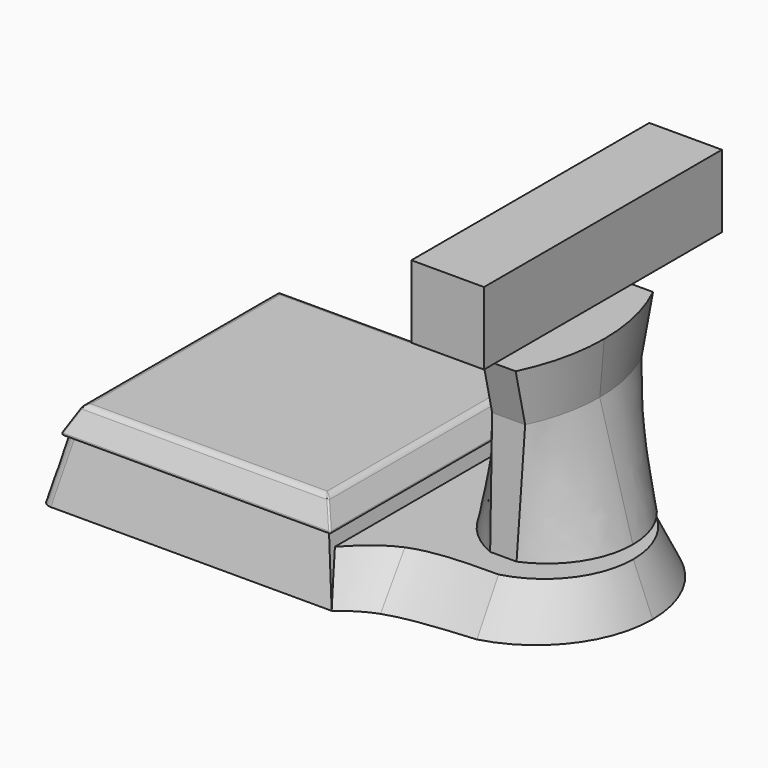
from build123d import *

# Parameters (mm, degrees)
F2_W      = 40
F2_H      = 40
F0_W      = 44
F0_H      = 44
F4_R      = 1.5
F5_R      = 1.5
F6_W      = 41
F6_H      = 41
F8_W      = 37
F8_H      = 37
F10_R     = 1
F11_R     = 0.25
F13_W     = 11
F13_H     = 45.0330291986
F14_DEPTH = 11


with BuildPart() as f3:
    # F2 (on offset) → F3 section 0
    with BuildSketch(Plane.XY.offset(9)):
        with Locations((22, 22)):
            Rectangle(F2_W, F2_H)
    # F0 (on Top) → F3 section 1
    with BuildSketch(Plane.XY):
        with Locations((22, 22)):
            Rectangle(F0_W, F0_H)
    loft()

    # F4
    f4_edges = [f3.edges().sort_by_distance(p)[0] for p in [
        (1, 1, 4.5),
    ]]
    fillet(f4_edges, radius=F4_R)

    # F5
    f5_edges = [f3.edges().sort_by_distance(p)[0] for p in [
        (1, 43, 4.5),
    ]]
    fillet(f5_edges, radius=F5_R)

    # F20 (on offset) → F29 section 0
    with BuildSketch(Plane.XY.offset(7)):
        with BuildLine():
            add(Edge.make_bspline(
                [(49.000000095, 36.5999999251), (46.1058603772, 37.7910813372), (44.0529302361, 39.9455406312), (42.000000095, 42.0999999251)],
                knots=[0.5480089564, 0.5480089564, 0.5480089564, 0.5480089564, 1, 1, 1, 1], degree=3))
            Line((42.000000095, 42.0999999251), (42.000000095, 2.0999999251))
            add(Edge.make_bspline(
                [(49.000000095, 7.5999999251), (46.1058603772, 6.408918513), (44.0529302361, 4.2544592191), (42.000000095, 2.0999999251)],
                knots=[0.5480089564, 0.5480089564, 0.5480089564, 0.5480089564, 1, 1, 1, 1], degree=3))
            Line((49.000000095, 7.5999999251), (49.000000095, 36.5999999251))
        make_face()
    # F0 (on Top) → F29 section 1
    with BuildSketch(Plane.XY):
        with BuildLine():
            Line((44, 44), (44, 0))
            add(Edge.make_bspline(
                [(44, 0), (45.4231395267, 1.111139135), (46.8462790534, 2.22227827), (49, 3)],
                knots=[0, 0, 0, 0, 0.3996958004, 0.3996958004, 0.3996958004, 0.3996958004], degree=3))
            Line((49, 3), (49, 41))
            add(Edge.make_bspline(
                [(44, 44), (45.4231395267, 42.888860865), (46.8462790534, 41.77772173), (49, 41)],
                knots=[0, 0, 0, 0, 0.3996958004, 0.3996958004, 0.3996958004, 0.3996958004], degree=3))
        make_face()
    loft()

    # F0 (on Top) → F30 section 0
    with BuildSketch(Plane.XY):
        with BuildLine():
            Line((49, 41), (49, 3))
            add(Edge.make_bspline(
                [(49, 3), (52.2346792934, 4.168062362), (57.1173396467, 4.584031181), (62, 5)],
                knots=[0.3996958004, 0.3996958004, 0.3996958004, 0.3996958004, 1, 1, 1, 1], degree=3))
            Line((62, 5), (62, 22))
            Line((62, 22), (62, 39))
            add(Edge.make_bspline(
                [(49, 41), (52.2346792934, 39.831937638), (57.1173396467, 39.415968819), (62, 39)],
                knots=[0.3996958004, 0.3996958004, 0.3996958004, 0.3996958004, 1, 1, 1, 1], degree=3))
        make_face()
    # F20 (on offset) → F30 section 1
    with BuildSketch(Plane.XY.offset(7)):
        with BuildLine():
            add(Edge.make_bspline(
                [(62.000000095, 35.0999999251), (57.2544756637, 35.1279465892), (52.5089512324, 35.1558932533), (49.000000095, 36.5999999251)],
                knots=[0, 0, 0, 0, 0.5480089564, 0.5480089564, 0.5480089564, 0.5480089564], degree=3))
            Line((49.000000095, 36.5999999251), (49.000000095, 7.5999999251))
            add(Edge.make_bspline(
                [(62.000000095, 9.0999999251), (57.2544756637, 9.072053261), (52.5089512324, 9.044106597), (49.000000095, 7.5999999251)],
                knots=[0, 0, 0, 0, 0.5480089564, 0.5480089564, 0.5480089564, 0.5480089564], degree=3))
            Line((62.000000095, 9.0999999251), (62.000000095, 22.0999999251))
            Line((62.000000095, 22.0999999251), (62.000000095, 35.0999999251))
        make_face()
    loft()

    # F0 (on Top) → F31 section 0
    with BuildSketch(Plane.XY):
        with BuildLine():
            Line((62, 39), (62, 22))
            Line((62, 22), (75, 22))
            ThreePointArc((75, 22), (71.3775341348, 32.7004672795), (62, 39))
        make_face()
    # F20 (on offset) → F31 section 1
    with BuildSketch(Plane.XY.offset(7)):
        with BuildLine():
            ThreePointArc((72.000000095, 22.0999999251), (69.2107927485, 30.3006096586), (62.000000095, 35.0999999251))
            Line((62.000000095, 35.0999999251), (62.000000095, 22.0999999251))
            Line((62.000000095, 22.0999999251), (72.000000095, 22.0999999251))
        make_face()
    loft()

    # F20 (on offset) → F32 section 0
    with BuildSketch(Plane.XY.offset(7)):
        with BuildLine():
            Line((62.000000095, 22.0999999251), (62.000000095, 9.0999999251))
            ThreePointArc((62.000000095, 9.0999999251), (69.2107927485, 13.8993901917), (72.000000095, 22.0999999251))
            Line((72.000000095, 22.0999999251), (62.000000095, 22.0999999251))
        make_face()
    # F0 (on Top) → F32 section 1
    with BuildSketch(Plane.XY):
        with BuildLine():
            Line((62, 22), (62, 5))
            ThreePointArc((62, 5), (71.3775341348, 11.2995327205), (75, 22))
            Line((75, 22), (62, 22))
        make_face()
    loft()


with BuildPart() as f9:
    # F6 (on offset) → F9 section 0
    with BuildSketch(Plane.XY.offset(9)):
        with Locations((22.1, 22)):
            Rectangle(F6_W, F6_H)
    # F8 (on offset) → F9 section 1
    with BuildSketch(Plane.XY.offset(13)):
        with Locations((22.1482352977, 22)):
            Rectangle(F8_W, F8_H)
    loft()

    # F10
    f10_edges = [f9.edges().sort_by_distance(p)[0] for p in [
        (22.148235, 3.5, 13),
        (3.648235, 22, 13),
        (40.648235, 22, 13),
        (22.148235, 40.5, 13),
    ]]
    fillet(f10_edges, radius=F10_R)

    # F11
    f11_edges = [f9.edges().sort_by_distance(p)[0] for p in [
        (41.761102, 2.359631, 10.719261),
        (40.920068, 3.221436, 12.442872),
        (22.1, 1.5, 9),
        (22.141543, 3.223607, 12.447214),
        (2.482588, 2.361803, 10.723607),
        (3.367372, 3.225763, 12.451501),
        (1.6, 22, 9),
        (3.369563, 22, 12.45578),
        (2.482588, 41.638197, 10.723607),
        (3.367372, 40.774237, 12.451501),
        (41.761102, 41.640369, 10.719261),
        (40.922203, 22, 12.438523),
        (42.6, 22, 9),
        (22.141543, 40.776393, 12.447214),
        (22.1, 42.5, 9),
        (40.920068, 40.778564, 12.442872),
    ]]
    fillet(f11_edges, radius=F11_R)


with BuildPart() as f14:
    # F13 (on offset) → F14 (new body)
    with BuildSketch(Plane.XY.offset(40)):
        with Locations((61.9711466432, 22.0165145993)):
            Rectangle(F13_W, F13_H)
    extrude(amount=F14_DEPTH)


with BuildPart() as f21:
    # F17 (on offset) → F21 section 0
    with BuildSketch(Plane.XY.offset(27)):
        with BuildLine():
            ThreePointArc((64.5, 11), (66.3671311799, 16.3597429137), (67, 22))
            Line((67, 22), (62, 22))
            Line((62, 22), (62, 11))
            Line((62, 11), (64.5, 11))
        make_face()
    # F18 (on offset) → F21 section 1
    with BuildSketch(Plane.XY.offset(35)):
        with BuildLine():
            Line((67.6662705779, 22), (62.1662705779, 22))
            Line((62.1662705779, 22), (62.1662705779, 9))
            Line((62.1662705779, 9), (64.6662705779, 9))
            ThreePointArc((64.6662705779, 9), (66.9065427168, 15.3291679679), (67.6662705779, 22))
        make_face()
    loft()

    # F18 (on offset) → F22 section 0
    with BuildSketch(Plane.XY.offset(35)):
        with BuildLine():
            Line((62.1662705779, 35), (62.1662705779, 22))
            Line((62.1662705779, 22), (67.6662705779, 22))
            ThreePointArc((67.6662705779, 22), (66.9065427168, 28.6708320321), (64.6662705779, 35))
            Line((64.6662705779, 35), (62.1662705779, 35))
        make_face()
    # F17 (on offset) → F22 section 1
    with BuildSketch(Plane.XY.offset(27)):
        with BuildLine():
            Line((62, 22), (67, 22))
            ThreePointArc((67, 22), (66.3671311799, 27.6402570863), (64.5, 33))
            Line((64.5, 33), (62, 33))
            Line((62, 33), (62, 22))
        make_face()
    loft()

    # F18 (on offset) → F23 section 0
    with BuildSketch(Plane.XY.offset(35)):
        with BuildLine():
            Line((56.6662705779, 22), (62.1662705779, 22))
            Line((62.1662705779, 22), (62.1662705779, 35))
            Line((62.1662705779, 35), (59.6662705779, 35))
            ThreePointArc((59.6662705779, 35), (57.425998439, 28.6708320321), (56.6662705779, 22))
        make_face()
    # F17 (on offset) → F23 section 1
    with BuildSketch(Plane.XY.offset(27)):
        with BuildLine():
            Line((57, 22), (62, 22))
            Line((62, 22), (62, 33))
            Line((62, 33), (59.5, 33))
            ThreePointArc((59.5, 33), (57.6328688201, 27.6402570863), (57, 22))
        make_face()
    loft()

    # F18 (on offset) → F24 section 0
    with BuildSketch(Plane.XY.offset(35)):
        with BuildLine():
            Line((62.1662705779, 9), (62.1662705779, 22))
            Line((62.1662705779, 22), (56.6662705779, 22))
            ThreePointArc((56.6662705779, 22), (57.425998439, 15.3291679679), (59.6662705779, 9))
            Line((59.6662705779, 9), (62.1662705779, 9))
        make_face()
    # F17 (on offset) → F24 section 1
    with BuildSketch(Plane.XY.offset(27)):
        with BuildLine():
            Line((62, 11), (62, 22))
            Line((62, 22), (57, 22))
            ThreePointArc((57, 22), (57.6328688201, 16.3597429137), (59.5, 11))
            Line((59.5, 11), (62, 11))
        make_face()
    loft()

    # F17 (on offset) → F25 section 0
    with BuildSketch(Plane.XY.offset(27)):
        with BuildLine():
            Line((62, 22), (67, 22))
            ThreePointArc((67, 22), (66.3671311799, 27.6402570863), (64.5, 33))
            Line((64.5, 33), (62, 33))
            Line((62, 33), (62, 22))
        make_face()
    # F2 (on offset) → F25 section 1
    with BuildSketch(Plane.XY.offset(9)):
        with BuildLine():
            Line((62, 34), (62, 22))
            Line((62, 22), (72, 22))
            ThreePointArc((72, 22), (69.8166538264, 29.2111025509), (64, 34))
            Line((64, 34), (62, 34))
        make_face()
    loft()

    # F2 (on offset) → F26 section 0
    with BuildSketch(Plane.XY.offset(9)):
        with BuildLine():
            Line((72, 22), (62, 22))
            Line((62, 22), (62, 10))
            Line((62, 10), (64, 10))
            ThreePointArc((64, 10), (69.8166538264, 14.7888974491), (72, 22))
        make_face()
    # F17 (on offset) → F26 section 1
    with BuildSketch(Plane.XY.offset(27)):
        with BuildLine():
            ThreePointArc((64.5, 11), (66.3671311799, 16.3597429137), (67, 22))
            Line((67, 22), (62, 22))
            Line((62, 22), (62, 11))
            Line((62, 11), (64.5, 11))
        make_face()
    loft()

    # F17 (on offset) → F27 section 0
    with BuildSketch(Plane.XY.offset(27)):
        with BuildLine():
            Line((57, 22), (62, 22))
            Line((62, 22), (62, 33))
            Line((62, 33), (59.5, 33))
            ThreePointArc((59.5, 33), (57.6328688201, 27.6402570863), (57, 22))
        make_face()
    # F2 (on offset) → F27 section 1
    with BuildSketch(Plane.XY.offset(9)):
        with BuildLine():
            Line((52, 22), (62, 22))
            Line((62, 22), (62, 34))
            Line((62, 34), (60, 34))
            ThreePointArc((60, 34), (54.1833461736, 29.2111025509), (52, 22))
        make_face()
    loft()

    # F17 (on offset) → F28 section 0
    with BuildSketch(Plane.XY.offset(27)):
        with BuildLine():
            Line((62, 11), (62, 22))
            Line((62, 22), (57, 22))
            ThreePointArc((57, 22), (57.6328688201, 16.3597429137), (59.5, 11))
            Line((59.5, 11), (62, 11))
        make_face()
    # F2 (on offset) → F28 section 1
    with BuildSketch(Plane.XY.offset(9)):
        with BuildLine():
            Line((62, 10), (62, 22))
            Line((62, 22), (52, 22))
            ThreePointArc((52, 22), (54.1833461736, 14.7888974491), (60, 10))
            Line((60, 10), (62, 10))
        make_face()
    loft()


solid = Compound([f3.part, f9.part, f14.part, f21.part])
